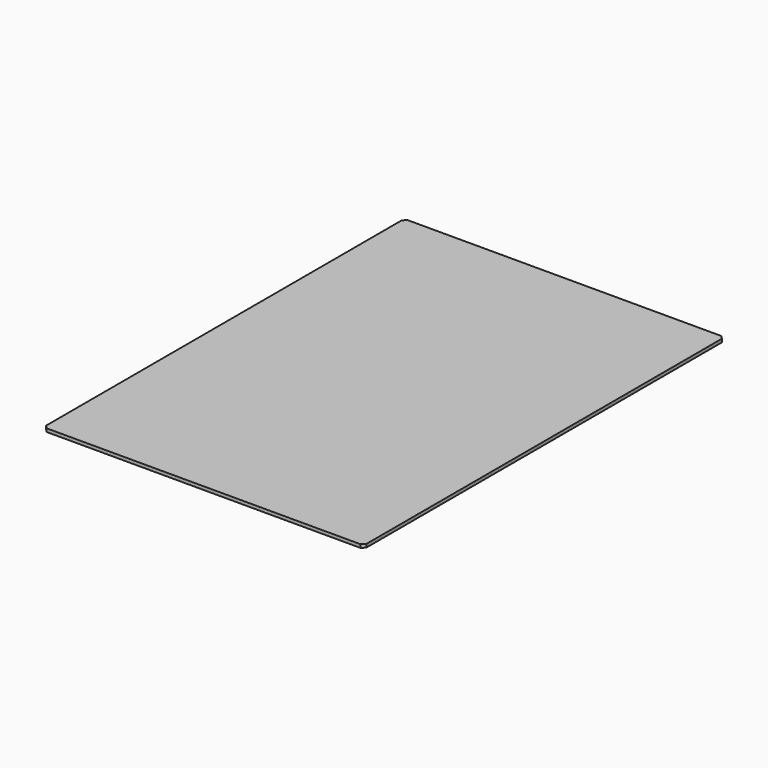
from build123d import *

# Parameters (mm, degrees)
F0_W          = 490
F0_H          = 5
F1_DEPTH      = 345
F1_DEPTH_BACK = 345
F2_SIZE       = 5


with BuildPart() as f1:
    # F0 (on Front) → F1 (new body, two sides)
    with BuildSketch(Plane.XZ) as f1_sk:
        with Locations((0, 2.5)):
            Rectangle(F0_W, F0_H)
    extrude(amount=F1_DEPTH)
    extrude(f1_sk.sketch, amount=-F1_DEPTH_BACK)

    # F2
    f2_edges = [f1.edges().sort_by_distance(p)[0] for p in [
        (245, -345, 2.5),
        (245, 345, 2.5),
        (-245, 345, 2.5),
        (-245, -345, 2.5),
    ]]
    chamfer(f2_edges, length=F2_SIZE)


solid = f1.part
